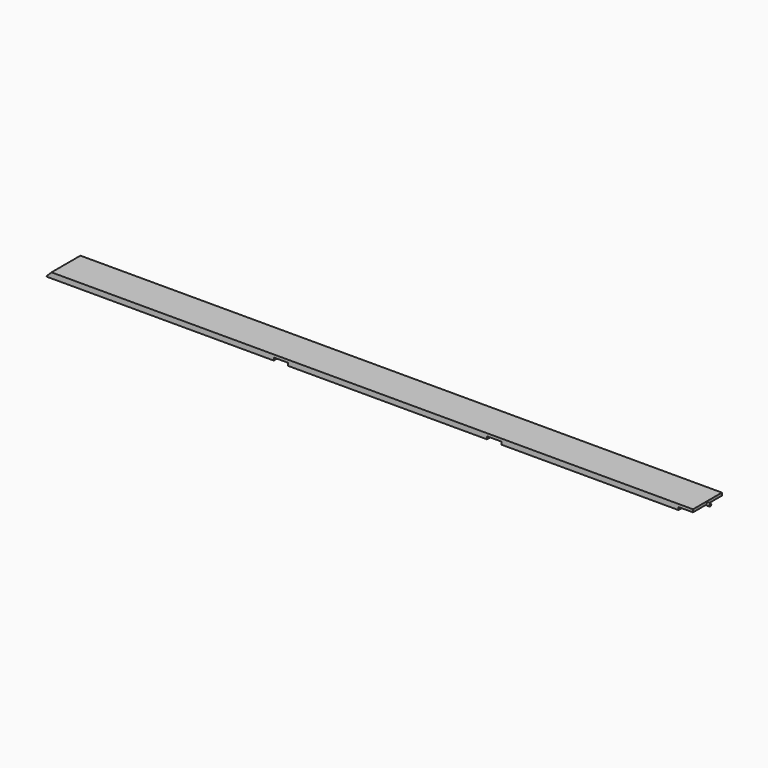
from build123d import *

# Parameters (mm, degrees)
F1_DEPTH = 63.5
F3_R     = 4.7625
F4_DEPTH = 9.525


with BuildPart() as f1:
    # F0 (on Front) → F1 (new body, symmetric)
    with BuildSketch(Plane.XZ):
        Polygon((0, 0), (25.4, 0), (800.1, 0), (800.1, 9.525), (850.9, 9.525), (850.9, 0), (1549.4, 0), (1549.4, 9.525), (1600.2, 9.525), (1600.2, 0), (2222.5, 0), (2222.5, 9.525), (2273.3, 9.525), (2273.3, 19.05), (19.05, 19.05), align=None)
    extrude(amount=F1_DEPTH, both=True)

    # F3 (on offset) → F4 (join)
    with BuildSketch(Plane.YZ.offset(2273.3)):
        with Locations((0, 9.525)):
            Circle(F3_R)
    extrude(amount=F4_DEPTH)


solid = f1.part
